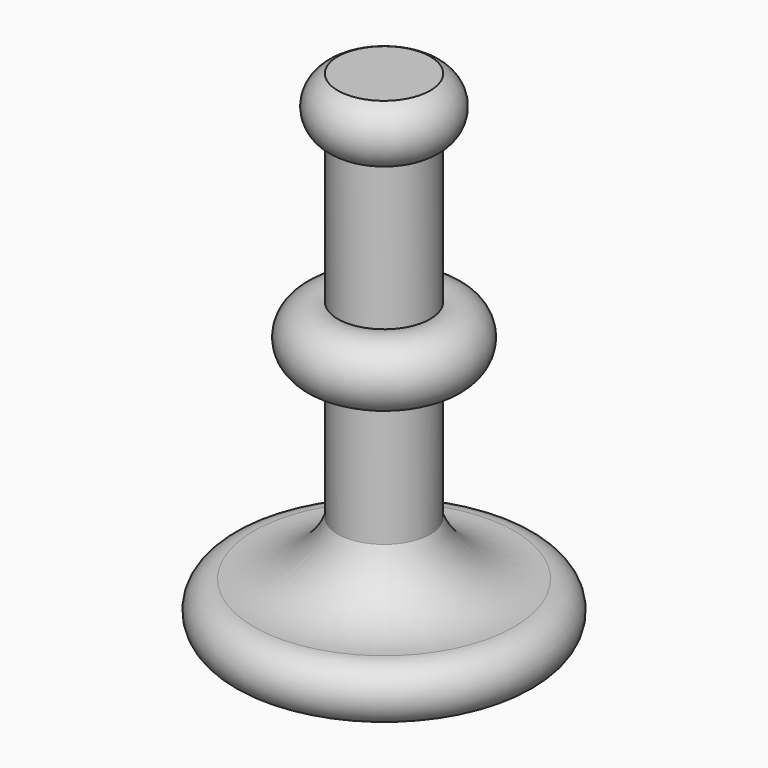
from build123d import *


with BuildPart() as f1:
    # F0 (on Front) → F1 (revolve)
    with BuildSketch(Plane.XZ):
        with BuildLine():
            Line((0, 151.533604), (0, 0))
            Line((0, 0), (39.447244, 0))
            ThreePointArc((39.447244, 0), (47.75573, 8.308486), (39.447244, 16.616972))
            ThreePointArc((39.447244, 16.616972), (24.008524, 20.649091), (14.016053, 33.089451))
            Line((14.016053, 33.089451), (14.016053, 71.814224))
            ThreePointArc((14.016053, 71.814224), (26.525387, 81.182078), (14.016053, 90.549931))
            Line((14.016053, 90.549931), (14.016053, 134.01702))
            ThreePointArc((14.016053, 134.01702), (19.862019, 142.775312), (14.016053, 151.533604))
            Line((14.016053, 151.533604), (0, 151.533604))
        make_face()
    revolve(axis=Axis((0, 0, 75.766802), (0, 0, -1)))


solid = f1.part
